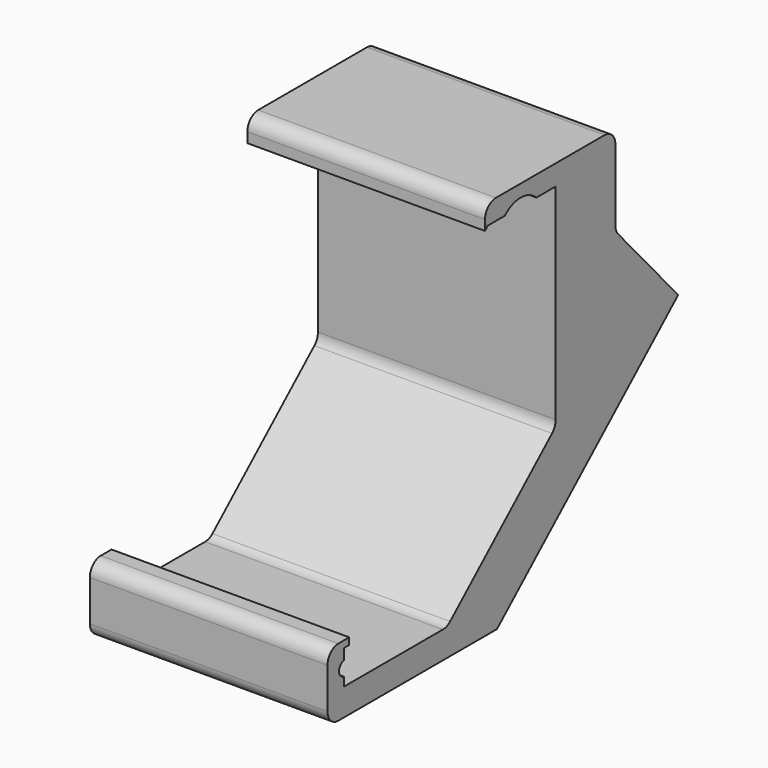
from build123d import *

# Parameters (mm, degrees)
F1_DEPTH = 35
F3_DEPTH = 35
F5_DEPTH = 35
F7_DEPTH = 35.001
F8_R     = 2


with BuildPart() as f1:
    # F0 (on Right) → F1 (new body)
    with BuildSketch(Plane.YZ):
        Polygon((19, 0), (0, 0), (0, 5), (1, 5), (1, 6), (-3, 6), (-3, -4), (28.1972419471, -4), (32.6792613945, 0), align=None)
        Polygon((39, 17.8490970284), (19, 0), (32.6792613945, 0), (39, 5.6409738331), align=None)
        Polygon((39, 49), (39, 17.8490970284), (39, 5.6409738331), (50, 15.4579771987), (50, 38.7150122165), (50, 52), (26, 52), (26, 49), align=None)
        Polygon((50, 38.7150122165), (50, 15.4579771987), (61.5536515036, 25.7690895346), align=None)
    extrude(amount=F1_DEPTH)

    # F2 (on face) → F3 (join)
    with BuildSketch(Plane.YZ):
        Polygon((26.4567731472, 49), (26, 49), (26, 48.5158836246), align=None)
    extrude(amount=F3_DEPTH)

    # F4 (on Right) → F5 (cut, through all)
    with BuildSketch(Plane.YZ):
        with BuildLine():
            Line((29.6401511878, 49), (35.453248769, 49))
            ThreePointArc((35.453248769, 49), (32.5466999784, 50.1759769875), (29.6401511878, 49))
        make_face()
    extrude(amount=F5_DEPTH, mode=Mode.SUBTRACT)

    # F6 (on face) → F7 (cut, through all)
    with BuildSketch(Plane.YZ):
        with BuildLine():
            Line((0, 1.3031382114), (0, 3.3907820471))
            ThreePointArc((0, 3.3907820471), (-0.8807520402, 2.3469601292), (0, 1.3031382114))
        make_face()
    extrude(amount=F7_DEPTH, mode=Mode.SUBTRACT)

    # F8
    f8_edges = [f1.edges().sort_by_distance(p)[0] for p in [
        (17.5, 50, 52),
        (17.5, -3, -4),
        (17.5, -3, 6),
        (17.5, 26, 52),
        (17.5, 39, 17.849097),
        (17.5, 19, 0),
        (17.5, 50, 38.715012),
    ]]
    fillet(f8_edges, radius=F8_R)


solid = f1.part
